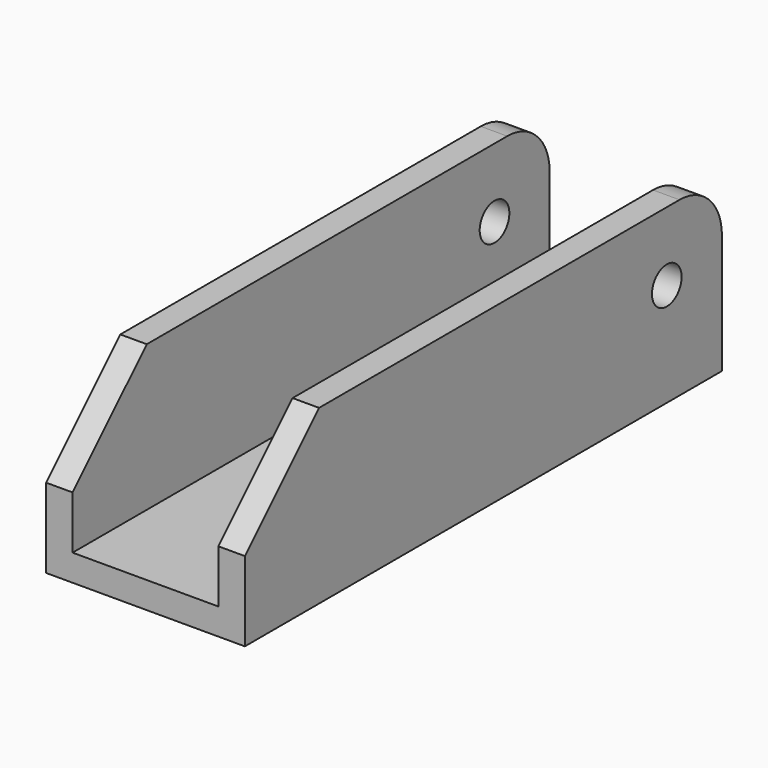
from build123d import *

# Parameters (mm, degrees)
F1_DEPTH = 57.15
F2_R     = 1.778
F3_DEPTH = 19.051
F4_R     = 5.08
F5_SIZE  = 8.89


with BuildPart() as f1:
    # F0 (on Front) → F1 (new body)
    with BuildSketch(Plane.XZ):
        Polygon((0, 16.51), (0, 0), (19.05, 0), (19.05, 16.51), (16.51, 16.51), (16.51, 2.54), (2.54, 2.54), (2.54, 16.51), align=None)
    extrude(amount=F1_DEPTH)

    # F2 (on face) → F3 (cut, through all)
    with BuildSketch(Plane(origin=(0, 0, 0), x_dir=(0, -1, 0), z_dir=(-1, 0, 0))):
        with Locations((6.604, 9.906)):
            Circle(F2_R)
    extrude(amount=-F3_DEPTH, mode=Mode.SUBTRACT)

    # F4
    f4_edges = [f1.edges().sort_by_distance(p)[0] for p in [
        (17.78, 0, 16.51),
        (1.27, 0, 16.51),
    ]]
    fillet(f4_edges, radius=F4_R)

    # F5
    f5_edges = [f1.edges().sort_by_distance(p)[0] for p in [
        (1.27, -57.15, 16.51),
        (17.78, -57.15, 16.51),
    ]]
    chamfer(f5_edges, length=F5_SIZE)


solid = f1.part
